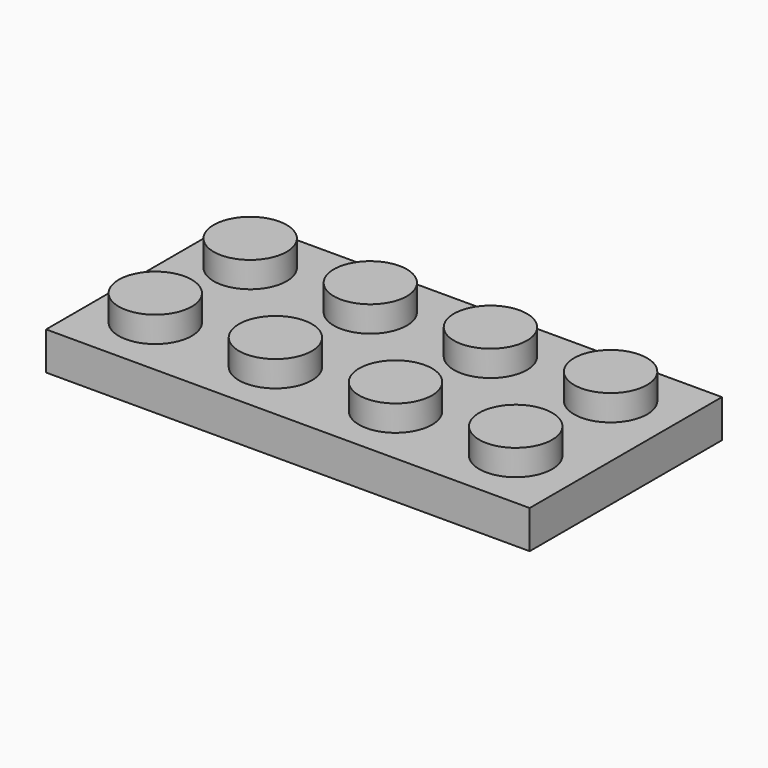
from build123d import *

# Parameters (mm, degrees)
F0_W     = 31.8
F0_H     = 15.8
F1_DEPTH = 2.5
F2_R     = 2.4
F3_DEPTH = 1.7


with BuildPart() as f1:
    # F0 (on Top) → F1 (new body)
    with BuildSketch(Plane.XY):
        Rectangle(F0_W, F0_H)
    extrude(amount=F1_DEPTH)

    # F2 (on face) → F3 (join)
    with BuildSketch(Plane.XY.offset(2.5)):
        with Locations((-12, 4)):
            Circle(F2_R)
        with Locations((-12, -3.8)):
            Circle(F2_R)
        with Locations((-4.1, -3.8)):
            Circle(F2_R)
        with Locations((-4.1, 4)):
            Circle(F2_R)
        with Locations((3.8, 4)):
            Circle(F2_R)
        with Locations((11.7, -3.8)):
            Circle(F2_R)
        with Locations((11.7, 4)):
            Circle(F2_R)
        with Locations((3.8, -3.8)):
            Circle(F2_R)
    extrude(amount=F3_DEPTH)


solid = f1.part
